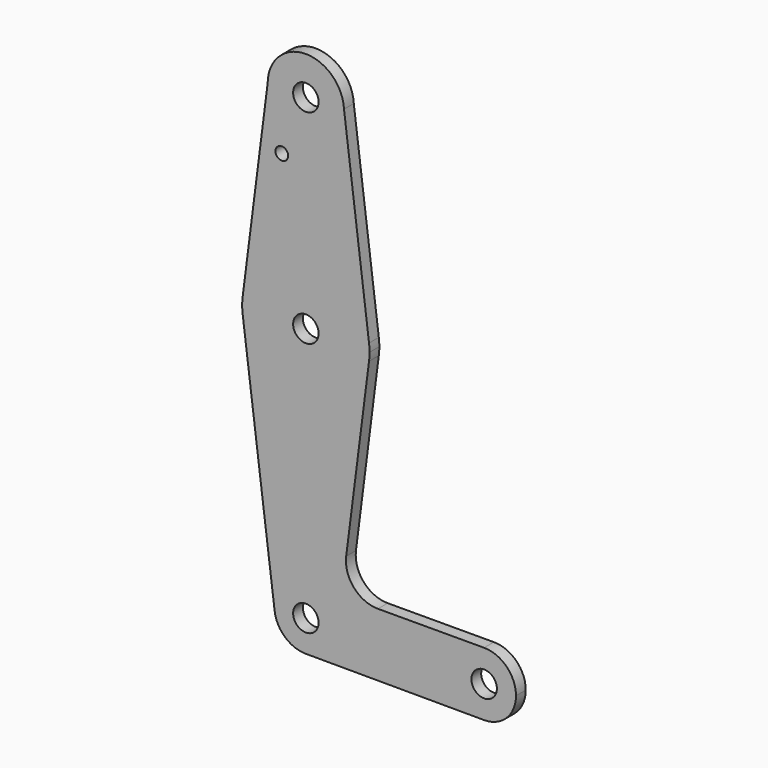
from build123d import *

# Parameters (mm, degrees)
F0_R     = 3.175
F0_R_2   = 1.5875
F1_DEPTH = 3.048


with BuildPart() as f1:
    # F0 (on Front) → F1 (new body)
    with BuildSketch(Plane.XZ):
        with BuildLine():
            ThreePointArc((-48.556072, 94.40956), (-39.039076, 84.868582), (-29.506085, 94.393578))
            ThreePointArc((-29.506085, 94.393578), (-29.509424, 94.645752), (-29.519438, 94.897749))
            ThreePointArc((-29.519438, 94.897749), (-39.275271, 103.915448), (-48.556072, 94.40956))
        make_face()
        with Locations((-39.031085, 94.393578)):
            Circle(F0_R, mode=Mode.SUBTRACT)
        with BuildLine():
            ThreePointArc((-29.519438, 94.897749), (-29.509424, 94.645752), (-29.506085, 94.393578))
            ThreePointArc((-29.506085, 94.393578), (-39.039076, 84.868582), (-48.556072, 94.40956))
            Line((-48.556072, 94.40956), (-54.778624, 45.601225))
            ThreePointArc((-54.778624, 45.601225), (-39.023338, 59.468576), (-23.281594, 45.585853))
            Line((-23.281594, 45.585853), (-29.519438, 94.897749))
        make_face()
        with Locations((-45.03163, 80.118778)):
            Circle(F0_R_2, mode=Mode.SUBTRACT)
        with BuildLine():
            ThreePointArc((-23.156085, 43.593578), (-23.187494, 44.59169), (-23.281594, 45.585853))
            ThreePointArc((-23.281594, 45.585853), (-39.023338, 59.468576), (-54.778624, 45.601225))
            ThreePointArc((-54.778624, 45.601225), (-54.906085, 43.593578), (-54.778624, 41.585932))
            ThreePointArc((-54.778624, 41.585932), (-39.031085, 27.718578), (-23.283546, 41.585932))
            ThreePointArc((-23.283546, 41.585932), (-23.187983, 42.587734), (-23.156085, 43.593578))
        make_face()
        with Locations((-39.031085, 43.593578)):
            Circle(F0_R, mode=Mode.SUBTRACT)
        with BuildLine():
            ThreePointArc((-23.283546, 41.585932), (-39.031085, 27.718578), (-54.778624, 41.585932))
            Line((-54.778624, 41.585932), (-46.812516, -20.898473))
            ThreePointArc((-46.812516, -20.898473), (-39.52811, -12.077769), (-31.186671, -19.906422))
            ThreePointArc((-31.186671, -19.906422), (-33.484247, -25.45326), (-39.031085, -27.750836))
            Line((-39.031085, -27.750836), (5.402289, -27.843904))
            ThreePointArc((5.402289, -27.843904), (-2.518585, -19.906422), (5.402289, -11.968939))
            Line((5.402289, -11.968939), (-21.073536, -12.024395))
            ThreePointArc((-21.073536, -12.024395), (-27.051216, -9.334614), (-28.976555, -3.068783))
            Line((-28.976555, -3.068783), (-23.283546, 41.585932))
        make_face()
        with BuildLine():
            ThreePointArc((-31.186671, -19.906422), (-39.52811, -12.077769), (-46.812516, -20.898473))
            ThreePointArc((-46.812516, -20.898473), (-44.215329, -25.793564), (-39.031085, -27.750836))
            ThreePointArc((-39.031085, -27.750836), (-33.484247, -25.45326), (-31.186671, -19.906422))
        make_face()
        with Locations((-39.031085, -19.906422)):
            Circle(F0_R, mode=Mode.SUBTRACT)
        with BuildLine():
            ThreePointArc((5.402289, -11.968939), (-2.518585, -19.906422), (5.402289, -27.843904))
            ThreePointArc((5.402289, -27.843904), (11.025694, -25.524957), (13.356415, -19.906422))
            ThreePointArc((13.356415, -19.906422), (11.025694, -14.287887), (5.402289, -11.968939))
        make_face()
        with Locations((5.418915, -19.906422)):
            Circle(F0_R, mode=Mode.SUBTRACT)
    extrude(amount=F1_DEPTH)


solid = f1.part
